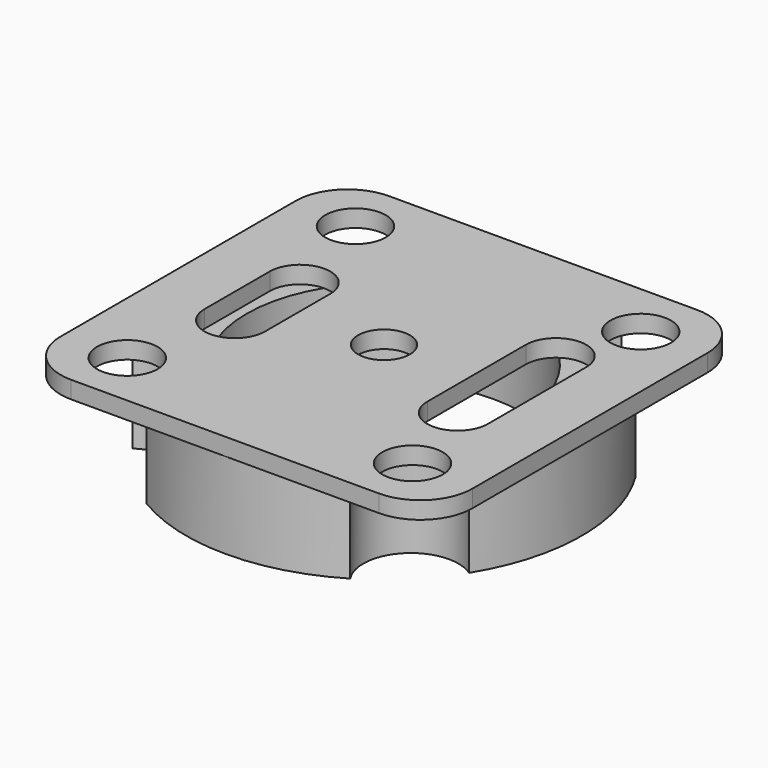
from build123d import *

# Parameters (mm, degrees)
SKETCH_W                 = 23
SKETCH_H                 = 23.82
PAD_DEPTH                = 6
FILLET_R                 = 3
POCKET_DEPTH             = 1
SKETCH001_W              = 40
SKETCH001_H              = 40
SKETCH001_R              = 11.45
POCKET001_DEPTH          = 5
SKETCH004_R              = 7.95
POCKET002_DEPTH          = 5
SKETCH006_R              = 1.75
HOLE_DEPTH               = 6.001
SKETCH007_R              = 2.75
POCKET004_DEPTH          = 5
SKETCH008_R              = 1.5
HOLE001_DEPTH            = 25
CLONE001_ROLL_ANGLE      = 180
CLONE001_PLACEMENT_ANGLE = 90


with BuildPart() as part:
    # Sketch → Pad (new body)
    with BuildSketch(Plane.XY):
        Rectangle(SKETCH_W, SKETCH_H)
    extrude(amount=PAD_DEPTH)

    # Fillet
    fillet_edges = [part.edges().sort_by_distance(p)[0] for p in [
        (11.5, -11.91, 3),
        (-11.5, -11.91, 3),
        (11.5, 11.91, 3),
        (-11.5, 11.91, 3),
    ]]
    fillet(fillet_edges, radius=FILLET_R)

    # Sketch003 → Pocket (cut)
    with BuildSketch(Plane(origin=(0, 0, 0), x_dir=(1, 0, 0), z_dir=(0, 0, -1))):
        with BuildLine():
            ThreePointArc((4, -8.5), (5.75, -6.75), (4, -5))
            Line((4, -5), (-3.12, -5))
            ThreePointArc((-3.12, -5), (-4.87, -6.75), (-3.12, -8.5))
            Line((4, -8.5), (-3.12, -8.5))
        make_face()
        with BuildLine():
            ThreePointArc((2.38, 5.01), (4.13, 6.76), (2.38, 8.51))
            Line((2.38, 8.51), (-2.34, 8.51))
            ThreePointArc((-2.34, 8.51), (-4.09, 6.76), (-2.34, 5.01))
            Line((2.38, 5.01), (-2.34, 5.01))
        make_face()
    extrude(amount=-POCKET_DEPTH, mode=Mode.SUBTRACT)

    # Sketch001 (on Face6 of Pad) → Pocket001 (cut)
    with BuildSketch(Plane.XY.offset(6)):
        Rectangle(SKETCH001_W, SKETCH001_H)
        Circle(SKETCH001_R, mode=Mode.SUBTRACT)
    extrude(amount=-POCKET001_DEPTH, mode=Mode.SUBTRACT)

    # Sketch004 (on Face21 of Pocket001) → Pocket002 (cut)
    with BuildSketch(Plane(origin=(0, 0, 1), x_dir=(1, 0, 0), z_dir=(0, 0, -1))):
        with Locations((-0.007428, -0.004957)):
            Circle(SKETCH004_R)
    extrude(amount=-POCKET002_DEPTH, mode=Mode.SUBTRACT)

    # Sketch006 → Hole (cut, through all)
    with BuildSketch(Plane.XY.offset(6)):
        with Locations((-8.25, 8.25)):
            Circle(SKETCH006_R)
        with Locations((8.25, 8.25)):
            Circle(SKETCH006_R)
        with Locations((8.25, -8.25)):
            Circle(SKETCH006_R)
        with Locations((-8.25, -8.25)):
            Circle(SKETCH006_R)
    extrude(amount=-HOLE_DEPTH, mode=Mode.SUBTRACT)

    # Sketch007 → Pocket004 (cut)
    with BuildSketch(Plane.XY.offset(6)):
        with Locations((-8.293696, 8.188751)):
            Circle(SKETCH007_R)
        with Locations((8.293696, 8.188751)):
            Circle(SKETCH007_R)
        with Locations((8.293696, -8.188751)):
            Circle(SKETCH007_R)
        with Locations((-8.293696, -8.188751)):
            Circle(SKETCH007_R)
    extrude(amount=-POCKET004_DEPTH, mode=Mode.SUBTRACT)

    # Sketch008 (on Face6 of Pad) → Hole001 (cut)
    with BuildSketch(Plane.XY.offset(6)):
        Circle(SKETCH008_R)
    extrude(amount=-HOLE001_DEPTH, mode=Mode.SUBTRACT)


with BuildPart() as part_1:
    # Clone001 roll: moved
    add(part.part.rotate(Axis((0, 0, 0), (1, 0, 0)), CLONE001_ROLL_ANGLE))


with BuildPart() as part_2:
    # Clone001 placement: moved
    add(part_1.part.moved(Location((0, 0, 6))).rotate(Axis((0, 0, 6), (0, 0, 1)), CLONE001_PLACEMENT_ANGLE))


solid = part_2.part
